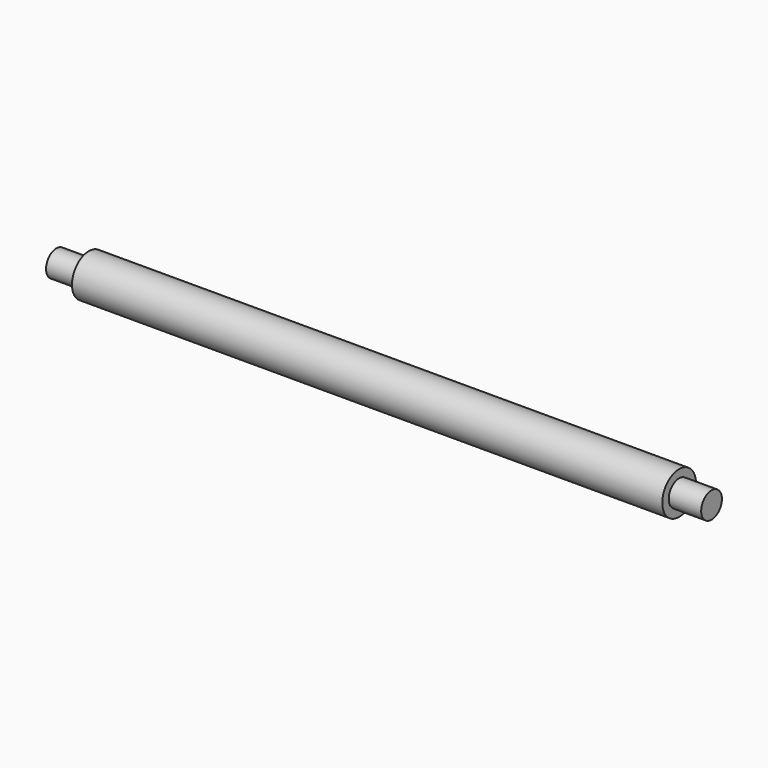
from build123d import *

# Parameters (mm, degrees)
SKETCH_R     = 6.5
PAD_DEPTH    = 91
SKETCH001_R  = 4
PAD001_DEPTH = 10
SKETCH002_R  = 4
PAD002_DEPTH = 10


with BuildPart() as part:
    # Sketch → Pad (new body, symmetric)
    with BuildSketch(Plane.YZ):
        Circle(SKETCH_R)
    extrude(amount=PAD_DEPTH, both=True)

    # Sketch001 (on Face3 of Pad) → Pad001 (join)
    with BuildSketch(Plane.YZ.offset(91)):
        Circle(SKETCH001_R)
    extrude(amount=PAD001_DEPTH)

    # Sketch002 (on Face2 of Pad001) → Pad002 (join)
    with BuildSketch(Plane(origin=(-91, 0, 0), x_dir=(0, 1, 0), z_dir=(-1, 0, 0))):
        Circle(SKETCH002_R)
    extrude(amount=PAD002_DEPTH)


solid = part.part
